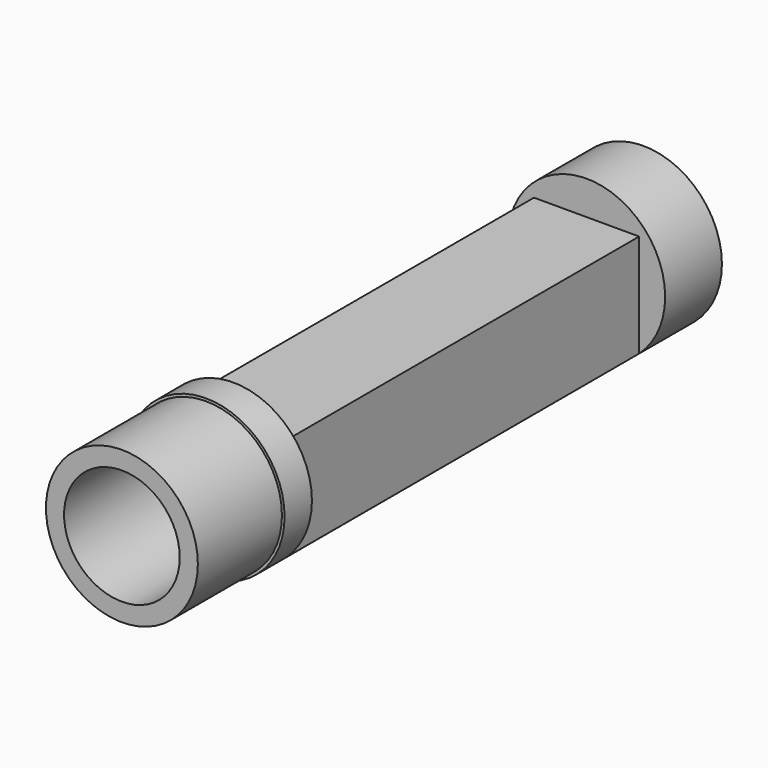
from build123d import *

# Parameters (mm, degrees)
SKETCH_R        = 14.95
PAD001_DEPTH    = 124
SKETCH001_R     = 11
POCKET_DEPTH    = 10
SKETCH021_R     = 8
POCKET007_DEPTH = 2
SKETCH002_R     = 5.005
POCKET001_DEPTH = 114.001
SKETCH003_R     = 11
POCKET002_DEPTH = 23
SKETCH022_R     = 8
POCKET008_DEPTH = 2
SKETCH004_W     = 30.9
SKETCH004_H     = 30.9
POCKET003_DEPTH = 84
SKETCH015_R     = 15.45
SKETCH015_R_2   = 14.45
POCKET005_DEPTH = 20


with BuildPart() as part:
    # Sketch → Pad001 (new body)
    with BuildSketch(Plane.XZ):
        Circle(SKETCH_R)
    extrude(amount=PAD001_DEPTH)

    # Sketch001 (on Face2 of Pad001) → Pocket (cut)
    with BuildSketch(Plane(origin=(0, 0, 0), x_dir=(1, 0, 0), z_dir=(0, 1, 0))):
        Circle(SKETCH001_R)
    extrude(amount=-POCKET_DEPTH, mode=Mode.SUBTRACT)

    # Sketch021 (on Face5 of Pocket) → Pocket007 (cut)
    with BuildSketch(Plane(origin=(0, -10, 0), x_dir=(1, 0, 0), z_dir=(0, 1, 0))):
        Circle(SKETCH021_R)
    extrude(amount=-POCKET007_DEPTH, mode=Mode.SUBTRACT)

    # Sketch002 (on Face5 of Pocket) → Pocket001 (cut, through all)
    with BuildSketch(Plane(origin=(0, -10, 0), x_dir=(1, 0, 0), z_dir=(0, 1, 0))):
        Circle(SKETCH002_R)
    extrude(amount=-POCKET001_DEPTH, mode=Mode.SUBTRACT)

    # Sketch003 (on Face3 of Pocket001) → Pocket002 (cut)
    with BuildSketch(Plane.XZ.offset(124)):
        Circle(SKETCH003_R)
    extrude(amount=-POCKET002_DEPTH, mode=Mode.SUBTRACT)

    # Sketch022 (on Face7 of Pocket002) → Pocket008 (cut)
    with BuildSketch(Plane.XZ.offset(101)):
        Circle(SKETCH022_R)
    extrude(amount=-POCKET008_DEPTH, mode=Mode.SUBTRACT)

    # Sketch004 → Pocket003 (cut)
    with BuildSketch(Plane.XZ.offset(13.5)):
        Rectangle(SKETCH004_W, SKETCH004_H)
        Polygon((-9.292893, -12.5), (9.292893, -12.5), (10, -11.792893), (10, 8.5), (-10, 8.5), (-10, -11.792893), align=None, mode=Mode.SUBTRACT)
    extrude(amount=POCKET003_DEPTH, mode=Mode.SUBTRACT)

    # Sketch015 (on Face6 of Pocket003) → Pocket005 (cut)
    with BuildSketch(Plane.XZ.offset(124)):
        Circle(SKETCH015_R)
        Circle(SKETCH015_R_2, mode=Mode.SUBTRACT)
    extrude(amount=-POCKET005_DEPTH, mode=Mode.SUBTRACT)


solid = part.part
